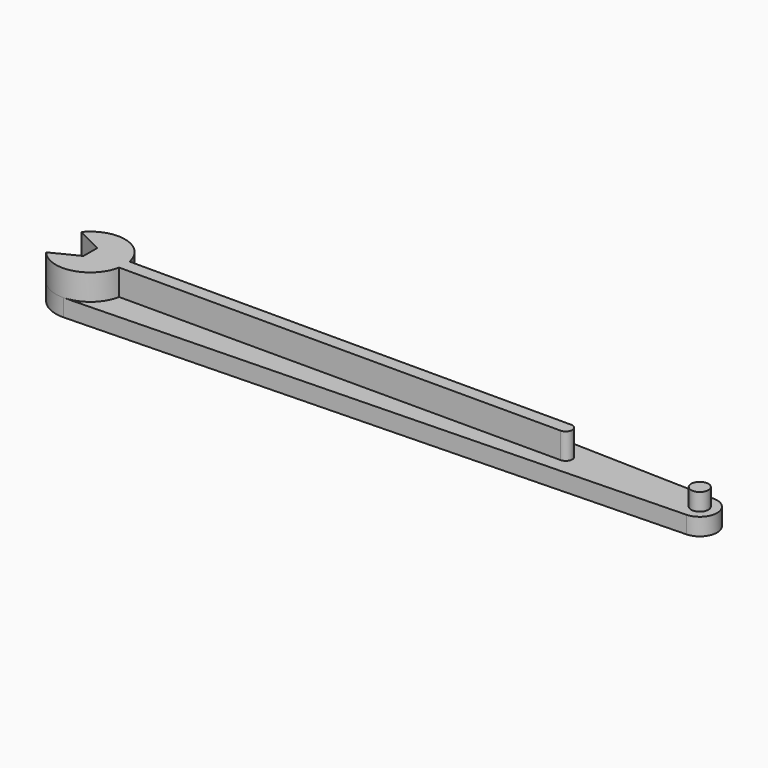
from build123d import *

# Parameters (mm, degrees)
PAD_DEPTH    = 4
SKETCH001_R  = 8
PAD001_DEPTH = 10
POCKET_DEPTH = 10.001
SKETCH003_R  = 2
PAD002_DEPTH = 8
PAD003_DEPTH = 10


with BuildPart() as part:
    # Sketch → Pad (new body)
    with BuildSketch(Plane.XY):
        with BuildLine():
            ThreePointArc((0.22695, 7.99678), (-8, 0), (0.22695, -7.99678))
            Line((0.22695, -7.99678), (141.113475, -3.99839))
            ThreePointArc((141.113475, -3.99839), (145, 0), (141.113475, 3.99839))
            Line((0.22695, 7.99678), (141.113475, 3.99839))
        make_face()
    extrude(amount=PAD_DEPTH)

    # Sketch001 → Pad001 (join)
    with BuildSketch(Plane.XY):
        Circle(SKETCH001_R)
    extrude(amount=PAD001_DEPTH)

    # Sketch002 → Pocket (cut, through all)
    with BuildSketch(Plane.XY):
        Polygon((0, -2), (-8, -6), (-8, 6), (0, 2), align=None)
    extrude(amount=POCKET_DEPTH, mode=Mode.SUBTRACT)

    # Sketch003 → Pad002 (join)
    with BuildSketch(Plane.XY):
        with Locations((141, 0)):
            Circle(SKETCH003_R)
    extrude(amount=PAD002_DEPTH)

    # Sketch004 → Pad003 (join)
    with BuildSketch(Plane.XY):
        with BuildLine():
            Line((0, 1.5), (110.000009, 1.5))
            ThreePointArc((110, -1.5), (111.5, -5e-06), (110.000009, 1.5))
            Line((110, -1.5), (0, -1.5))
            Line((0, -1.5), (0, 1.5))
        make_face()
    extrude(amount=PAD003_DEPTH)


solid = part.part
